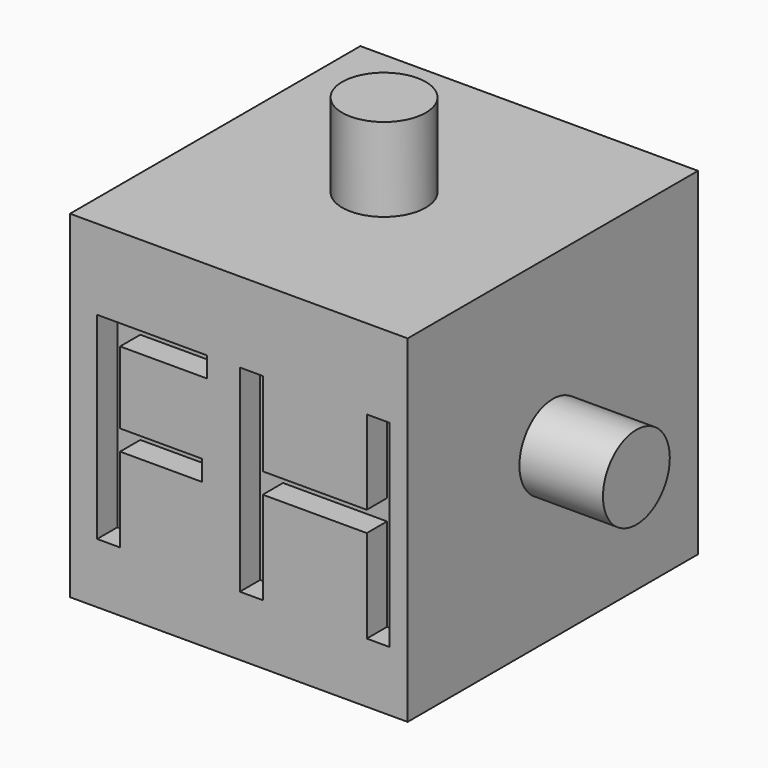
from build123d import *

# Parameters (mm, degrees)
F0_W     = 40
F0_H     = 40
F1_DEPTH = 40
F2_W     = 40
F2_H     = 40
F3_DEPTH = 3
F4_R     = 4.95
F5_DEPTH = 9.9
F6_R     = 4.95
F7_DEPTH = 9.9
F8_R     = 4.95
F9_DEPTH = 9.9


with BuildPart() as f1:
    # F0 (on Front) → F1 (new body)
    with BuildSketch(Plane.XZ):
        with Locations((-20, 20)):
            Rectangle(F0_W, F0_H)
    extrude(amount=F1_DEPTH)

    # F2 (on face) → F3 (join)
    with BuildSketch(Plane.XZ.offset(40)):
        with Locations((-20, 20)):
            Rectangle(F2_W, F2_H)
        Polygon((-34.0678182981, 17.1128881329), (-34.0678182981, 7.1167269045), (-36.7856685861, 7.1167269045), (-36.7856685861, 30.5025234496), (-23.7492002559, 30.5025234496), (-23.7492002559, 28.086656527), (-34.0678182981, 28.086656527), (-34.0678182981, 19.5287550555), (-24.3736404351, 19.5287550555), (-24.3736404351, 17.1128881329), align=None, mode=Mode.SUBTRACT)
        Polygon((-2.1241202815, 30.5025234496), (-2.1241202815, 7.1167269045), (-4.8419705694, 7.1167269045), (-4.8419705694, 18.1212054714), (-17.1618682022, 18.1212054714), (-17.1618682022, 7.1167269045), (-19.8797184901, 7.1167269045), (-19.8797184901, 30.5025234496), (-17.1618682022, 30.5025234496), (-17.1618682022, 20.5524274803), (-4.8419705694, 20.5524274803), (-4.8419705694, 30.5025234496), align=None, mode=Mode.SUBTRACT)
    extrude(amount=F3_DEPTH)

    # F4 (on face) → F5 (join)
    with BuildSketch(Plane.XY.offset(40)):
        with Locations((-20, -21.5)):
            Circle(F4_R)
    extrude(amount=F5_DEPTH)

    # F6 (on face) → F7 (join)
    with BuildSketch(Plane(origin=(-40, 0, 0), x_dir=(0, -1, 0), z_dir=(-1, 0, 0))):
        with Locations((21.5, 20)):
            Circle(F6_R)
    extrude(amount=F7_DEPTH)

    # F8 (on face) → F9 (join)
    with BuildSketch(Plane.YZ):
        with Locations((-21.5, 20)):
            Circle(F8_R)
    extrude(amount=F9_DEPTH)


solid = f1.part
